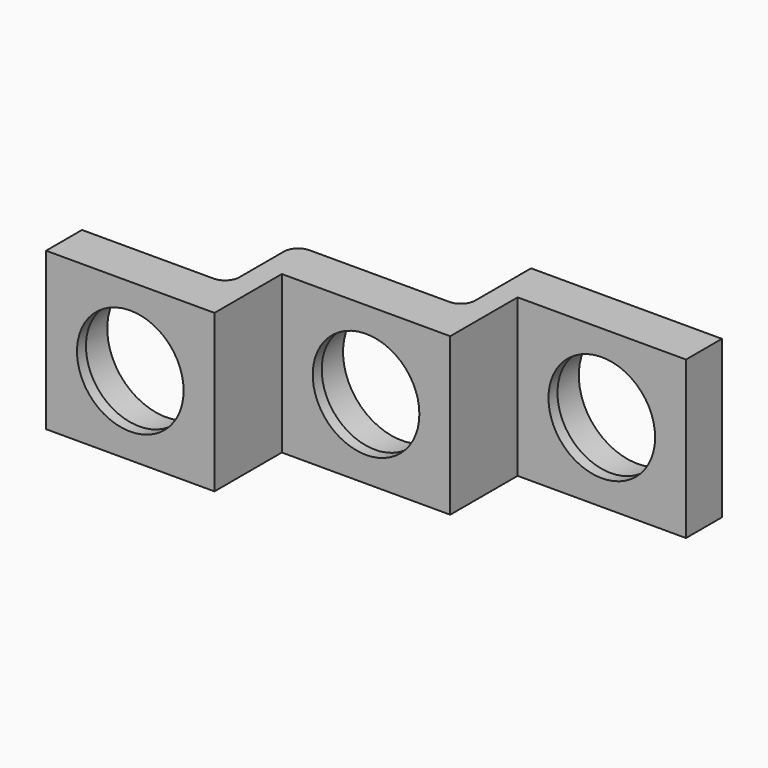
from build123d import *

# Parameters (mm, degrees)
F0_W     = 30
F0_H     = 28
F0_R     = 10.5
F0_R_2   = 9.5
F1_DEPTH = 8
F2_DEPTH = 38
F3_DEPTH = 23
F4_DEPTH = 36
F5_DEPTH = 21
F6_DEPTH = 6
F8_DEPTH = 28.001


with BuildPart() as f1:
    # F0 (on Front) → F1 (new body)
    with BuildSketch(Plane.XZ):
        with Locations((60, 0)):
            Rectangle(F0_W, F0_H)
        with Locations((60, 0)):
            Circle(F0_R, mode=Mode.SUBTRACT)
        with Locations((30, 0)):
            Rectangle(F0_W, F0_H)
        with Locations((30, 0)):
            Circle(F0_R, mode=Mode.SUBTRACT)
        Rectangle(F0_W, F0_H)
        Circle(F0_R, mode=Mode.SUBTRACT)
        Circle(F0_R)
        Circle(F0_R_2, mode=Mode.SUBTRACT)
        with Locations((60, 0)):
            Circle(F0_R)
        with Locations((60, 0)):
            Circle(F0_R_2, mode=Mode.SUBTRACT)
        with Locations((30, 0)):
            Circle(F0_R)
        with Locations((30, 0)):
            Circle(F0_R_2, mode=Mode.SUBTRACT)
    extrude(amount=F1_DEPTH)

    # F0 (on Front) → F2 (join)
    with BuildSketch(Plane.XZ):
        Rectangle(F0_W, F0_H)
        Circle(F0_R, mode=Mode.SUBTRACT)
        Circle(F0_R)
        Circle(F0_R_2, mode=Mode.SUBTRACT)
    extrude(amount=F2_DEPTH)

    # F0 (on Front) → F3 (join)
    with BuildSketch(Plane.XZ):
        with Locations((30, 0)):
            Rectangle(F0_W, F0_H)
        with Locations((30, 0)):
            Circle(F0_R, mode=Mode.SUBTRACT)
        with Locations((30, 0)):
            Circle(F0_R)
        with Locations((30, 0)):
            Circle(F0_R_2, mode=Mode.SUBTRACT)
    extrude(amount=F3_DEPTH)

    # F0 (on Front) → F4 (cut)
    with BuildSketch(Plane.XZ):
        Circle(F0_R)
        Circle(F0_R_2, mode=Mode.SUBTRACT)
    extrude(amount=F4_DEPTH, mode=Mode.SUBTRACT)

    # F0 (on Front) → F5 (cut)
    with BuildSketch(Plane.XZ):
        with Locations((30, 0)):
            Circle(F0_R)
        with Locations((30, 0)):
            Circle(F0_R_2, mode=Mode.SUBTRACT)
    extrude(amount=F5_DEPTH, mode=Mode.SUBTRACT)

    # F0 (on Front) → F6 (cut)
    with BuildSketch(Plane.XZ):
        with Locations((60, 0)):
            Circle(F0_R)
        with Locations((60, 0)):
            Circle(F0_R_2, mode=Mode.SUBTRACT)
    extrude(amount=F6_DEPTH, mode=Mode.SUBTRACT)

    # F7 (on face) → F8 (cut, through all)
    with BuildSketch(Plane(origin=(0, 0, -14), x_dir=(1, 0, 0), z_dir=(0, 0, -1))):
        with BuildLine():
            Line((8.46, 30), (-15, 30))
            Line((-15, 30), (-15, 0))
            Line((-15, 0), (41, 0))
            Line((41, 0), (41, 12.46))
            ThreePointArc((41, 12.46), (40.2560512242, 14.2560512242), (38.46, 15))
            Line((38.46, 15), (13.54, 15))
            ThreePointArc((13.54, 15), (11.7439487758, 15.7439487758), (11, 17.54))
            Line((11, 17.54), (11, 27.46))
            ThreePointArc((11, 27.46), (10.2560512242, 29.2560512242), (8.46, 30))
        make_face()
    extrude(amount=-F8_DEPTH, mode=Mode.SUBTRACT)


solid = f1.part
